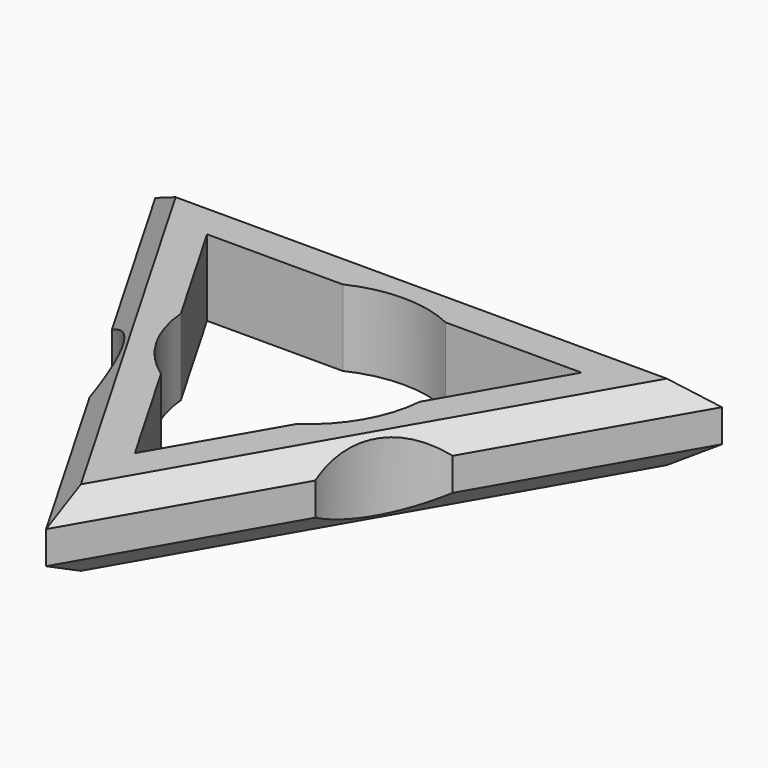
from build123d import *

# Parameters (mm, degrees)
F1_DEPTH = 7
F2_SIZE  = 2


with BuildPart() as f1:
    # F0 (on Top) → F1 (new body)
    with BuildSketch(Plane.XY):
        with BuildLine():
            Line((-5.2907653123, 15.0261512026), (-17.7863569535, 15.0261512026))
            Line((-17.7863569535, 15.0261512026), (-21.9062071393, 7.8903613612))
            Line((-21.9062071393, 7.8903613612), (-15.6584113187, -2.9311384354))
            ThreePointArc((-15.6584113187, -2.9311384354), (-11.782946139, -6.4350487366), (-10.3462820464, -11.4582562819))
            ThreePointArc((-10.3462820464, -11.4582562819), (-10.3516245386, -11.7768136709), (-10.3676460064, -12.0950127672))
            Line((-10.3676460064, -12.0950127672), (-4.1198501858, -22.9165125638))
            Line((-4.1198501858, -22.9165125638), (4.1198501858, -22.9165125638))
            Line((4.1198501858, -22.9165125638), (10.3680051395, -12.0943907304))
            ThreePointArc((10.3680051395, -12.0943907304), (11.6193871206, -6.7084562819), (15.6580521856, -2.9317604722))
            Line((15.6580521856, -2.9317604722), (21.9062071393, 7.8903613612))
            Line((21.9062071393, 7.8903613612), (17.7863569535, 15.0261512026))
            Line((17.7863569535, 15.0261512026), (5.2907653123, 15.0261512026))
            ThreePointArc((5.2907653123, 15.0261512026), (0, 13.4165125638), (-5.2907653123, 15.0261512026))
        make_face()
        with BuildLine():
            ThreePointArc((-4.7301378537, 9.9310521036), (0, 11), (4.7301378537, 9.9310521036))
            Line((4.7301378537, 9.9310521036), (17.2010868161, 9.9310521036))
            Line((17.2010868161, 9.9310521036), (10.9656123349, -0.8691065071))
            ThreePointArc((10.9656123349, -0.8691065071), (9.5262794416, -5.5), (6.2354744812, -9.0619455965))
            Line((6.2354744812, -9.0619455965), (0, -19.8621042073))
            Line((0, -19.8621042073), (-6.2354744812, -9.0619455965))
            ThreePointArc((-6.2354744812, -9.0619455965), (-9.5262794416, -5.5), (-10.9656123349, -0.8691065071))
            Line((-10.9656123349, -0.8691065071), (-17.2010868161, 9.9310521036))
            Line((-17.2010868161, 9.9310521036), (-4.7301378537, 9.9310521036))
        make_face(mode=Mode.SUBTRACT)
        Polygon((-17.7863569535, 15.0261512026), (-26.0260573251, 15.0261512026), (-21.9062071393, 7.8903613612), align=None)
        Polygon((26.0260573251, 15.0261512026), (17.7863569535, 15.0261512026), (21.9062071393, 7.8903613612), align=None)
        Polygon((4.1198501858, -22.9165125638), (-4.1198501858, -22.9165125638), (0, -30.0523024052), align=None)
    extrude(amount=F1_DEPTH)

    # F2 (call 1 of 5: OpenCascade refuses the feature's edges together)
    f2_edges = [f1.edges().sort_by_distance(p)[0] for p in [
        (-20.842234, 6.047506, 7),
        (-15.658411, 15.026151, 7),
    ]]
    chamfer(f2_edges, length=F2_SIZE)

    # F2#2 (call 2 of 5)
    f2_2_edges = [f1.edges().sort_by_distance(p)[0] for p in [
        (-5.183823, -21.073658, 0),
    ]]
    chamfer(f2_2_edges, length=F2_SIZE)

    # F2#3 (call 3 of 5)
    f2_3_edges = [f1.edges().sort_by_distance(p)[0] for p in [
        (-15.658411, 15.026151, 0),
    ]]
    chamfer(f2_3_edges, length=F2_SIZE)

    # F2#4 (call 4 of 5)
    f2_4_edges = [f1.edges().sort_by_distance(p)[0] for p in [
        (20.842055, 6.047195, 7),
    ]]
    chamfer(f2_4_edges, length=F2_SIZE)

    # F2#5 (call 5 of 5)
    f2_5_edges = [f1.edges().sort_by_distance(p)[0] for p in [
        (20.842055, 6.047195, 0),
    ]]
    chamfer(f2_5_edges, length=F2_SIZE)


solid = f1.part
